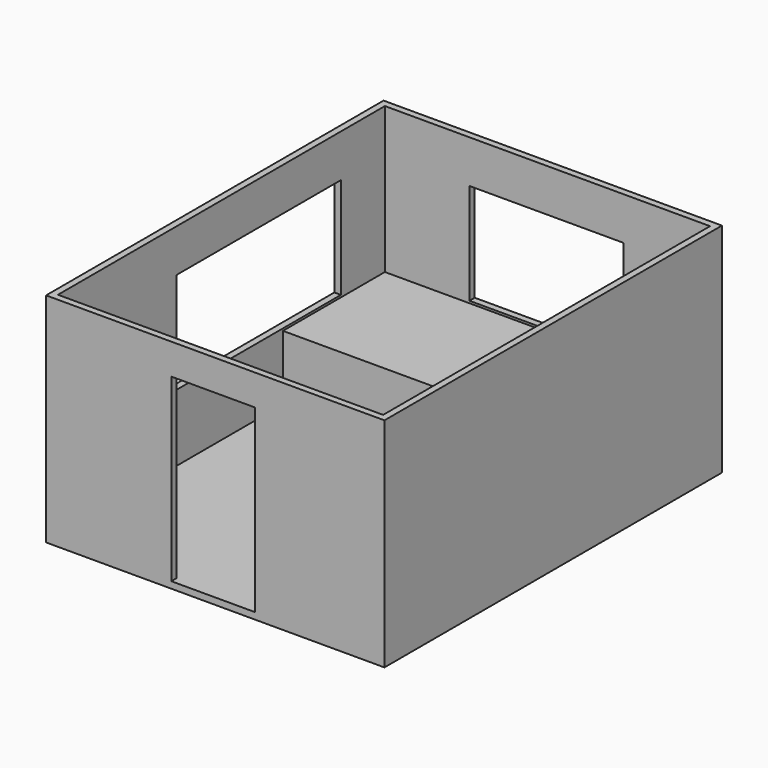
from build123d import *

# Parameters (mm, degrees)
F0_W      = 3759.2
F0_H      = 4724.4
F1_DEPTH  = 2438.4
F2_T      = 76.2
F3_W      = 965.2
F3_H      = 2082.8
F4_DEPTH  = 76.201
F5_W      = 2374.9
F5_H      = 1168.4
F6_DEPTH  = 76.201
F7_W      = 1778
F7_H      = 1168.4
F8_DEPTH  = 76.201
F9_W      = 1981.2
F9_H      = 1473.2
F10_DEPTH = 749.3


with BuildPart() as f1:
    # F0 (on Top) → F1 (new body)
    with BuildSketch(Plane.XY):
        Rectangle(F0_W, F0_H)
    extrude(amount=F1_DEPTH)

    # F2
    f2_openings = [f1.faces().sort_by_distance(p)[0] for p in [
        (0, 0, 2438.4),
    ]]
    offset(amount=F2_T, openings=f2_openings, kind=Kind.INTERSECTION)

    # F3 (on face) → F4 (cut, through all)
    with BuildSketch(Plane(origin=(0, -2362.2, 0), x_dir=(-1, 0, 0), z_dir=(0, 1, 0))):
        with Locations((25.4, 1041.4)):
            Rectangle(F3_W, F3_H)
    extrude(amount=-F4_DEPTH, mode=Mode.SUBTRACT)

    # F5 (on face) → F6 (cut, through all)
    with BuildSketch(Plane.YZ.offset(-1879.6)):
        with Locations((539.75, 1358.9)):
            Rectangle(F5_W, F5_H)
    extrude(amount=-F6_DEPTH, mode=Mode.SUBTRACT)

    # F7 (on face) → F8 (cut, through all)
    with BuildSketch(Plane.XZ.offset(-2362.2)):
        with Locations((-12.7, 1358.9)):
            Rectangle(F7_W, F7_H)
    extrude(amount=-F8_DEPTH, mode=Mode.SUBTRACT)


with BuildPart() as f10:
    # F9 (on face) → F10 (new body)
    with BuildSketch(Plane.XY):
        with Locations((-889, 1625.6)):
            Rectangle(F9_W, F9_H)
    extrude(amount=F10_DEPTH)


solid = Compound([f1.part, f10.part])
